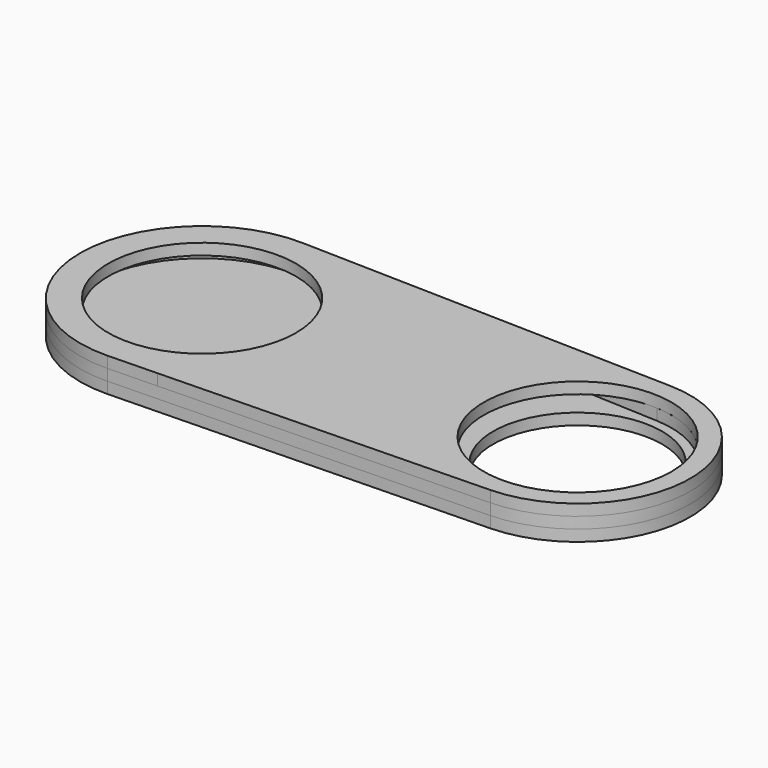
from build123d import *

# Parameters (mm, degrees)
F1_R     = 25
F5_DEPTH = 3
F6_DEPTH = 3
F4_R     = 22.5
F7_DEPTH = 3


with BuildPart() as f5:
    # F1 (on Top) → F5 (new body)
    with BuildSketch(Plane.XY):
        with BuildLine():
            Line((0.75, 29.9906235347), (-86.2011790718, 32.1650826362))
            Line((-86.2011790718, 32.1650826362), (-99.1875, 32.4898421626))
            ThreePointArc((-99.1875, 32.4898421626), (-132.5, 0), (-99.1875, -32.4898421626))
            Line((-99.1875, -32.4898421626), (-86.2011790718, -32.1650826362))
            Line((-86.2011790718, -32.1650826362), (0.75, -29.9906235347))
            ThreePointArc((0.75, -29.9906235347), (30, 0), (0.75, 29.9906235347))
        make_face()
        with Locations((-100, 0)):
            Circle(F1_R, mode=Mode.SUBTRACT)
        Circle(F1_R, mode=Mode.SUBTRACT)
    extrude(amount=F5_DEPTH)


with BuildPart() as f6:
    # F2 (on Top) → F6 (new body)
    with BuildSketch(Plane.XY):
        with BuildLine():
            Line((0.75, 29.9906235347), (-99.1875, 32.4898421626))
            ThreePointArc((-99.1875, 32.4898421626), (-132.5, 0), (-99.1875, -32.4898421626))
            Line((-99.1875, -32.4898421626), (0.75, -29.9906235347))
            ThreePointArc((0.75, -29.9906235347), (30, 0), (0.75, 29.9906235347))
        make_face()
        with BuildLine():
            ThreePointArc((-98.6725, -29.4701161136), (-129.5, 0), (-98.6725, 29.4701161136))
            Line((-98.6725, 29.4701161136), (1.125, 24.9746746726))
            ThreePointArc((1.125, 24.9746746726), (18.0710403685, 17.2753437014), (25, 0))
            ThreePointArc((25, 0), (18.0710403685, -17.2753437014), (1.125, -24.9746746726))
            Line((1.125, -24.9746746726), (-98.6725, -29.4701161136))
        make_face(mode=Mode.SUBTRACT)
    extrude(amount=-F6_DEPTH)


with BuildPart() as f7:
    # F4 (on offset) → F7 (new body)
    with BuildSketch(Plane.XY.offset(-6)):
        with BuildLine():
            Line((0.75, 29.9906235347), (-99.1875, 32.4898421626))
            ThreePointArc((-99.1875, 32.4898421626), (-132.5, 0), (-99.1875, -32.4898421626))
            Line((-99.1875, -32.4898421626), (0.75, -29.9906235347))
            ThreePointArc((0.75, -29.9906235347), (30, 0), (0.75, 29.9906235347))
        make_face()
        Circle(F4_R, mode=Mode.SUBTRACT)
    extrude(amount=F7_DEPTH)


solid = Compound([f5.part, f6.part, f7.part])
